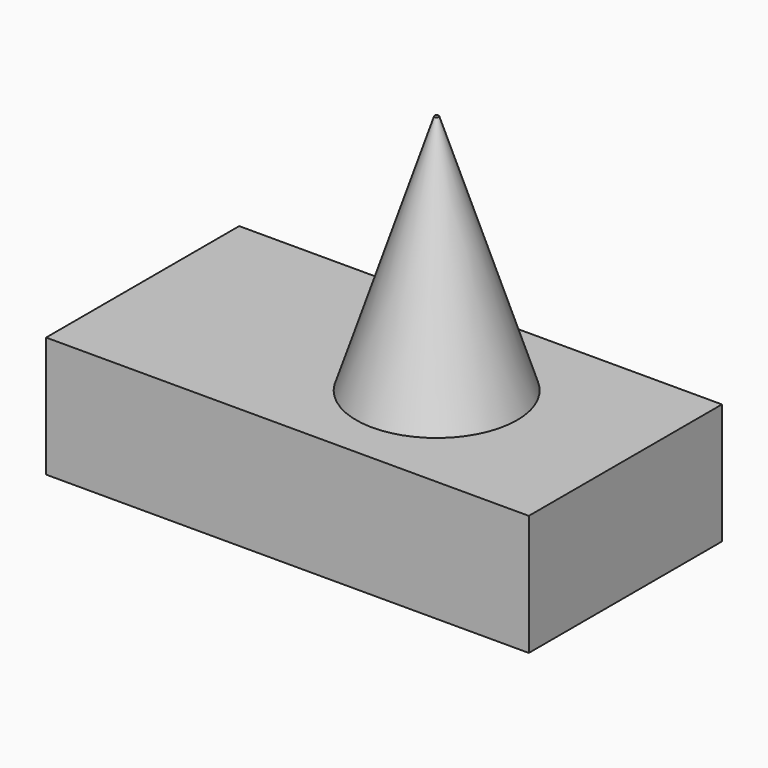
from build123d import *

# Parameters (mm, degrees)
F0_W     = 60
F0_H     = 30
F1_DEPTH = 15
F2_R     = 10
F3_DEPTH = 30
F3_TAPER = 18


with BuildPart() as f1:
    # F0 (on Top) → F1 (new body)
    with BuildSketch(Plane.XY):
        with Locations((30, 15)):
            Rectangle(F0_W, F0_H)
    extrude(amount=F1_DEPTH)

    # F2 (on face) → F3 (join)
    with BuildSketch(Plane.XY.offset(15)):
        with Locations((36.5466400981, 15)):
            Circle(F2_R)
    extrude(amount=F3_DEPTH, taper=F3_TAPER)


solid = f1.part
